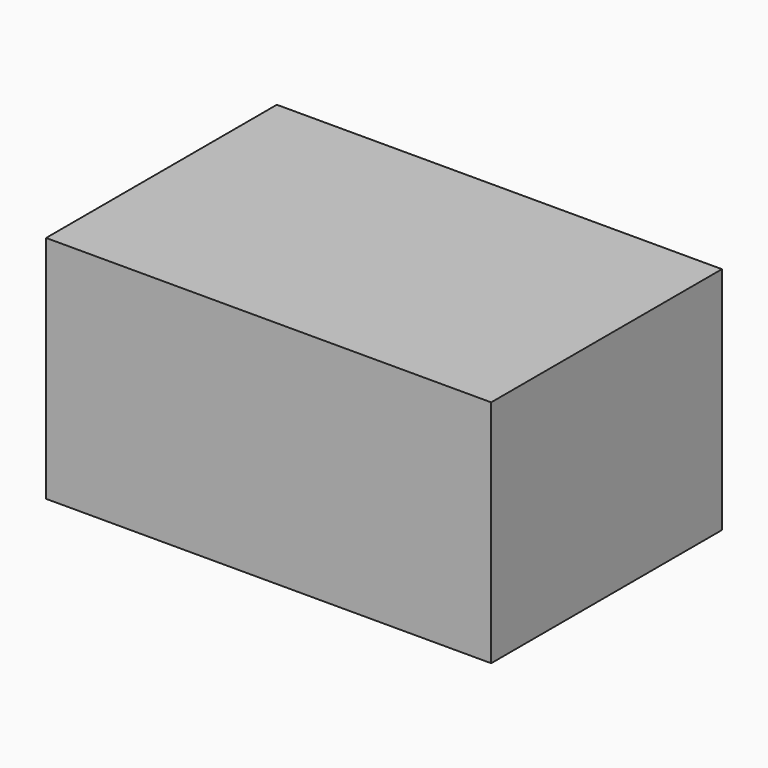
from build123d import *

# Parameters (mm, degrees)
F1_W     = 49.2183864117
F1_H     = 31.8957269192
F2_DEPTH = 25.4


with BuildPart() as f2:
    # F1 (on face) → F2 (new body)
    with BuildSketch(Plane.XY):
        with Locations((24.6091932058, -15.9478634596)):
            Rectangle(F1_W, F1_H)
    extrude(amount=F2_DEPTH)


solid = f2.part
